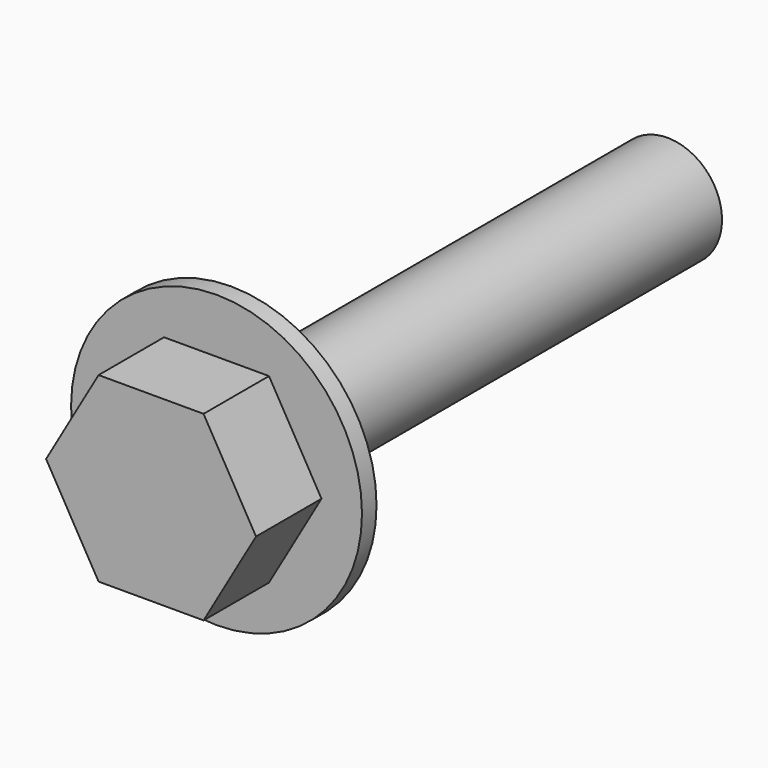
from build123d import *

# Parameters (mm, degrees)
F1_DEPTH = 5.5
F2_R     = 8
F3_DEPTH = 1
F4_R     = 3
F5_DEPTH = 30


with BuildPart() as f1:
    # F0 (on Front) → F1 (new body)
    with BuildSketch(Plane.XZ):
        Polygon((0, 5), (2.886751, 0), (8.660254, 0), (11.547005, 5), (8.660254, 10), (2.886751, 10), align=None)
    extrude(amount=F1_DEPTH)

    # F2 (on face) → F3 (join)
    with BuildSketch(Plane(origin=(0, 0, 0), x_dir=(-1, 0, 0), z_dir=(0, 1, 0))):
        with Locations((-5.773503, 5)):
            Circle(F2_R)
        Polygon((-2.886751, 10), (0, 5), (-2.886751, 0), (-8.660254, 0), (-11.547005, 5), (-8.660254, 10), align=None, mode=Mode.SUBTRACT)
    extrude(amount=-F3_DEPTH)

    # F4 (on face) → F5 (join)
    with BuildSketch(Plane(origin=(0, 0, 0), x_dir=(-1, 0, 0), z_dir=(0, 1, 0))):
        with Locations((-5.773503, 5)):
            Circle(F4_R)
    extrude(amount=F5_DEPTH)


solid = f1.part
